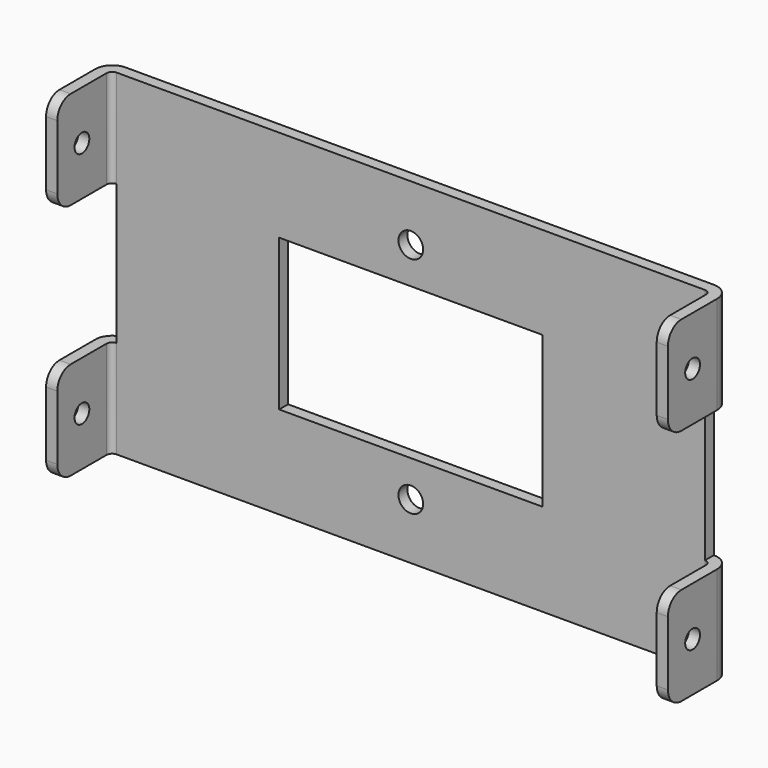
from build123d import *

# Parameters (mm, degrees)
F1_DEPTH = 30
F2_W     = 3
F2_H     = 25
F2_W_2   = 47
F2_H_2   = 27
F3_DEPTH = 14.001
F4_D     = 4.4
F6_D     = 3.3
F7_R     = 3


with BuildPart() as f1:
    # F0 (on Top) → F1 (new body, symmetric)
    with BuildSketch(Plane.XY):
        with BuildLine():
            Line((-52.5, 0), (52.5, 0))
            ThreePointArc((52.5, 0), (53.2071067812, -0.2928932188), (53.5, -1))
            Line((53.5, -1), (53.5, -12))
            Line((53.5, -12), (55.5, -12))
            Line((55.5, -12), (55.5, -1))
            ThreePointArc((55.5, -1), (54.6213203436, 1.1213203436), (52.5, 2))
            Line((52.5, 2), (-52.5, 2))
            ThreePointArc((-52.5, 2), (-54.6213203436, 1.1213203436), (-55.5, -1))
            Line((-55.5, -1), (-55.5, -12))
            Line((-55.5, -12), (-53.5, -12))
            Line((-53.5, -12), (-53.5, -1))
            ThreePointArc((-53.5, -1), (-53.2071067812, -0.2928932188), (-52.5, 0))
        make_face()
    extrude(amount=F1_DEPTH, both=True)

    # F2 (on face) → F3 (cut, through all)
    with BuildSketch(Plane(origin=(0, 2, 0), x_dir=(-1, 0, 0), z_dir=(0, 1, 0))):
        with Locations((-54, 0)):
            Rectangle(F2_W, F2_H)
        with Locations((54, 0)):
            Rectangle(F2_W, F2_H)
        Rectangle(F2_W_2, F2_H_2)
    extrude(amount=-F3_DEPTH, mode=Mode.SUBTRACT)

    # F4 (through all)
    with Locations(Plane(origin=(0, 2, 0), x_dir=(-1, 0, 0), z_dir=(0, 1, 0))):
        with Locations((0, 20), (0, -20)):
            Hole(F4_D / 2)

    # F6 (through all)
    with Locations(Plane.YZ.offset(55.5)):
        with Locations((-6.5, 21.25), (-6.5, -21.25)):
            Hole(F6_D / 2)

    # F7
    f7_edges = [f1.edges().sort_by_distance(p)[0] for p in [
        (-54.5, -12, 30),
        (-54.5, -12, 12.5),
        (-54.5, -12, -12.5),
        (-54.5, -12, -30),
        (54.5, -12, 30),
        (54.5, -12, 12.5),
        (54.5, -12, -12.5),
        (54.5, -12, -30),
    ]]
    fillet(f7_edges, radius=F7_R)


solid = f1.part
